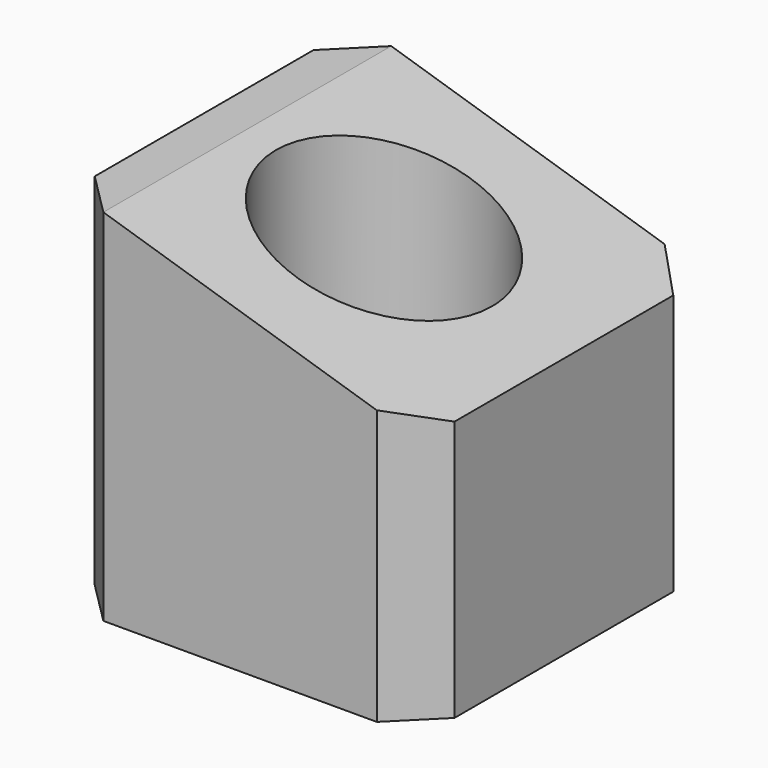
from build123d import *

# Parameters (mm, degrees)
F0_W     = 200
F0_H     = 200
F0_R     = 60
F1_DEPTH = 100
F2_SIZE  = 24
F4_DEPTH = 200


with BuildPart() as f1:
    # F0 (on Top) → F1 (new body, symmetric)
    with BuildSketch(Plane.XY):
        Rectangle(F0_W, F0_H)
        Circle(F0_R, mode=Mode.SUBTRACT)
    extrude(amount=F1_DEPTH, both=True)

    # F2
    f2_edges = [f1.edges().sort_by_distance(p)[0] for p in [
        (-100, -100, 0),
        (100, -100, 0),
        (100, 100, 0),
        (-100, 100, 0),
    ]]
    chamfer(f2_edges, length=F2_SIZE)

    # F3 (on face) → F4 (cut)
    with BuildSketch(Plane.XZ.offset(100)):
        Polygon((100, 45), (100, 100), (-76, 100), align=None)
    extrude(amount=-F4_DEPTH, mode=Mode.SUBTRACT)


solid = f1.part
